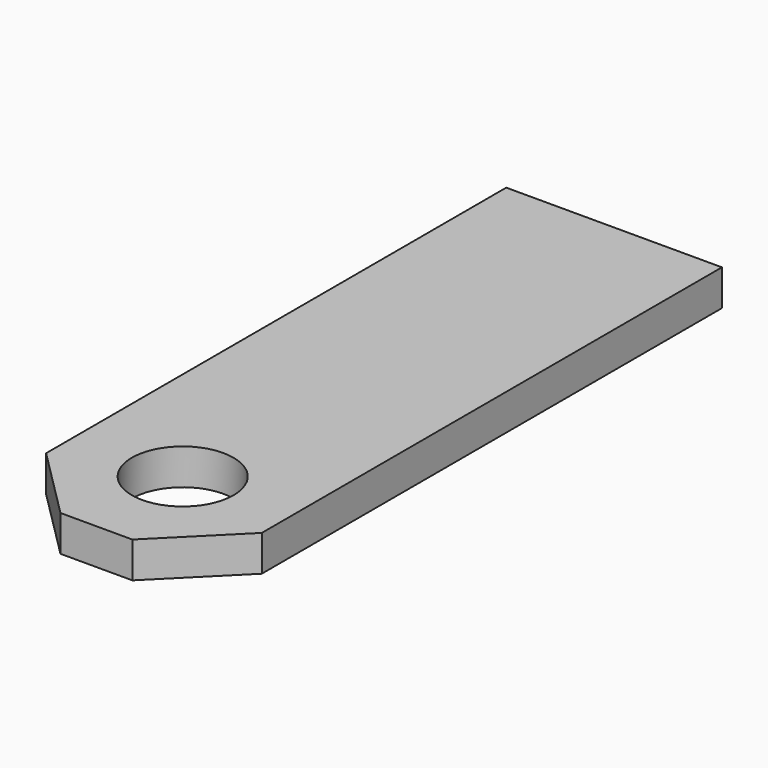
from build123d import *

# Parameters (mm, degrees)
SKETCH016_R      = 0.353553
EXTRUDE015_DEPTH = 2
EXTRUDE014_DEPTH = 0.25


with BuildPart() as extrude015:
    # Sketch016 → Extrude015 (new body)
    with BuildSketch(Plane.XY):
        with Locations((7, -3.25)):
            Circle(SKETCH016_R)
    extrude(amount=EXTRUDE015_DEPTH)


with BuildPart() as cut006:
    # Sketch015 → Extrude014 (new body)
    with BuildSketch(Plane(origin=(0.25, 0, 1), x_dir=(1, 0, 0), z_dir=(0, 0, 1))):
        Polygon((7.5, 0.5), (7.5, -3.5), (7, -4), (6.5, -4), (6, -3.5), (6, 0.5), align=None)
    extrude(amount=EXTRUDE014_DEPTH)


with BuildPart() as cut006_1:
    # Extrude014 placement: moved
    add(cut006.part.moved(Location((0, 0, -0.125))))

    # Cut006: cut Extrude015
    add(extrude015.part, mode=Mode.SUBTRACT)


solid = cut006_1.part
